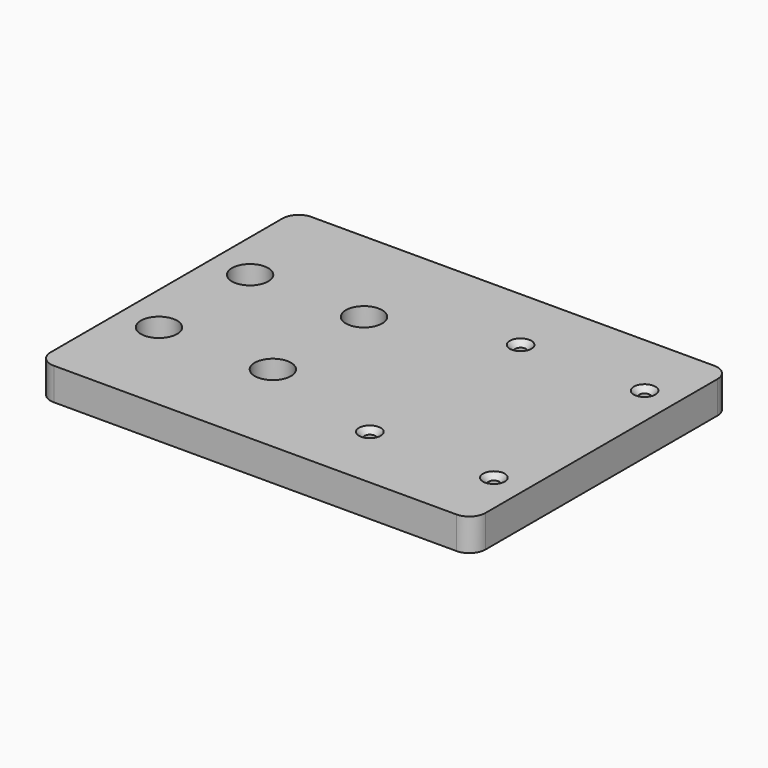
from build123d import *

# Parameters (mm, degrees)
F0_W           = 135
F0_H           = 100
F1_DEPTH       = 10
F4_D           = 6.6
F4_CBORE_D     = 11.25
F4_CBORE_DEPTH = 6
F5_R           = 5
F7_D           = 3.4
F7_CSINK_D     = 6.72
F7_CSINK_ANGLE = 90


with BuildPart() as f1:
    # F0 (on Top) → F1 (new body)
    with BuildSketch(Plane.XY):
        with Locations((67.5, 50)):
            Rectangle(F0_W, F0_H)
    extrude(amount=F1_DEPTH)

    # F4 (through all)
    with Locations(Plane.XY.offset(10)):
        with Locations((12.3223304703, 67.0123483286), (47.6776695297, 67.0123483286), (47.6776695297, 31.6570092693), (12.3223304703, 31.6570092693)):
            CounterBoreHole(F4_D / 2, F4_CBORE_D / 2, F4_CBORE_DEPTH)

    # F5
    f5_edges = [f1.edges().sort_by_distance(p)[0] for p in [
        (0, 100, 5),
        (135, 100, 5),
        (135, 0, 5),
        (0, 0, 5),
    ]]
    fillet(f5_edges, radius=F5_R)

    # F7 (through all)
    with Locations(Plane.XY.offset(10)):
        with Locations((86.5, 20.75), (86.5, 79.25), (125, 79.25), (125, 20.75)):
            CounterSinkHole(F7_D / 2, F7_CSINK_D / 2, counter_sink_angle=F7_CSINK_ANGLE)


solid = f1.part
